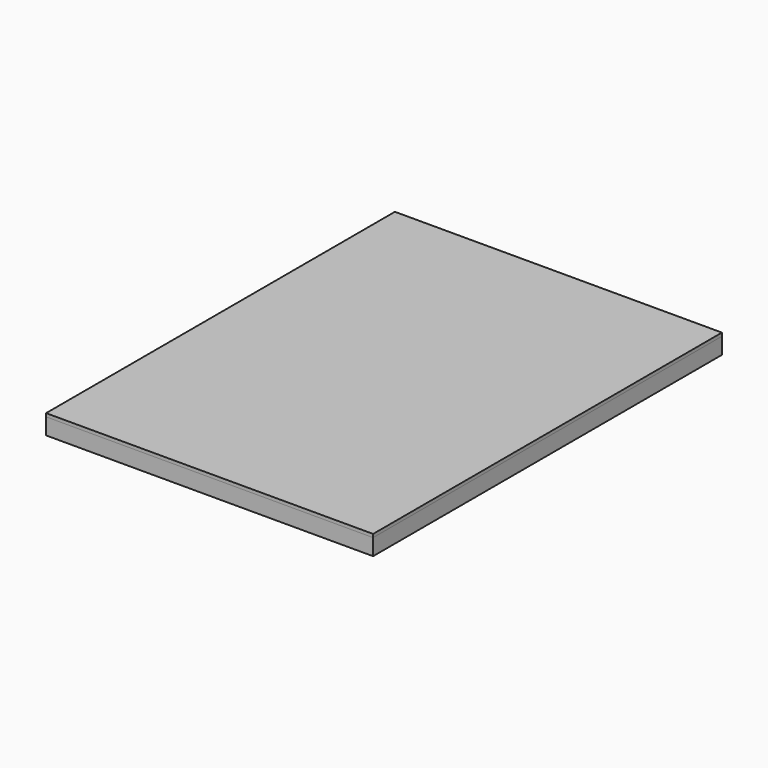
from build123d import *

# Parameters (mm, degrees)
F0_W     = 532.5
F0_H     = 45
F0_W_2   = 555
F1_DEPTH = 90
F0_H_2   = 1132.5
F2_DEPTH = 18


with BuildPart() as f1:
    # F0 (on Top) → F1 (new body)
    with BuildSketch(Plane.XY):
        Polygon((277.5, -1155), (322.5, -1155), (322.5, -22.5), (322.5, 22.5), (322.5, 1155), (277.5, 1155), (277.5, 22.5), (277.5, -22.5), align=None)
        with Locations((588.75, 0)):
            Rectangle(F0_W, F0_H)
        Rectangle(F0_W_2, F0_H)
        with Locations((-588.75, 0)):
            Rectangle(F0_W, F0_H)
        Polygon((-322.5, -22.5), (-322.5, -1155), (-277.5, -1155), (-277.5, -22.5), (-277.5, 22.5), (-277.5, 1155), (-322.5, 1155), (-322.5, 22.5), align=None)
        Polygon((-900, 1155), (-900, -1155), (-855, -1155), (-855, -22.5), (-855, 22.5), (-855, 1155), align=None)
        Polygon((855, -1155), (900, -1155), (900, 1155), (855, 1155), (855, 22.5), (855, -22.5), align=None)
        Polygon((-900, -1200), (900, -1200), (900, -1155), (855, -1155), (322.5, -1155), (277.5, -1155), (-277.5, -1155), (-322.5, -1155), (-855, -1155), (-900, -1155), align=None)
        Polygon((855, 1155), (900, 1155), (900, 1200), (-900, 1200), (-900, 1155), (-855, 1155), (-322.5, 1155), (-277.5, 1155), (277.5, 1155), (322.5, 1155), align=None)
    extrude(amount=-F1_DEPTH)


with BuildPart() as f2:
    # F0 (on Top) → F2 (new body)
    with BuildSketch(Plane.XY):
        with Locations((588.75, 588.75)):
            Rectangle(F0_W, F0_H_2)
        with Locations((588.75, -588.75)):
            Rectangle(F0_W, F0_H_2)
        with Locations((-588.75, -588.75)):
            Rectangle(F0_W, F0_H_2)
        with Locations((-588.75, 0)):
            Rectangle(F0_W, F0_H)
        with Locations((588.75, 0)):
            Rectangle(F0_W, F0_H)
        Polygon((855, -1155), (900, -1155), (900, 1155), (855, 1155), (855, 22.5), (855, -22.5), align=None)
        Polygon((855, 1155), (900, 1155), (900, 1200), (-900, 1200), (-900, 1155), (-855, 1155), (-322.5, 1155), (-277.5, 1155), (277.5, 1155), (322.5, 1155), align=None)
        Polygon((-900, 1155), (-900, -1155), (-855, -1155), (-855, -22.5), (-855, 22.5), (-855, 1155), align=None)
        Polygon((-900, -1200), (900, -1200), (900, -1155), (855, -1155), (322.5, -1155), (277.5, -1155), (-277.5, -1155), (-322.5, -1155), (-855, -1155), (-900, -1155), align=None)
        with Locations((0, -588.75)):
            Rectangle(F0_W_2, F0_H_2)
        with Locations((0, 588.75)):
            Rectangle(F0_W_2, F0_H_2)
        with Locations((-588.75, 588.75)):
            Rectangle(F0_W, F0_H_2)
        Rectangle(F0_W_2, F0_H)
        Polygon((-322.5, -22.5), (-322.5, -1155), (-277.5, -1155), (-277.5, -22.5), (-277.5, 22.5), (-277.5, 1155), (-322.5, 1155), (-322.5, 22.5), align=None)
        Polygon((277.5, -1155), (322.5, -1155), (322.5, -22.5), (322.5, 22.5), (322.5, 1155), (277.5, 1155), (277.5, 22.5), (277.5, -22.5), align=None)
    extrude(amount=F2_DEPTH)


solid = Compound([f1.part, f2.part])
